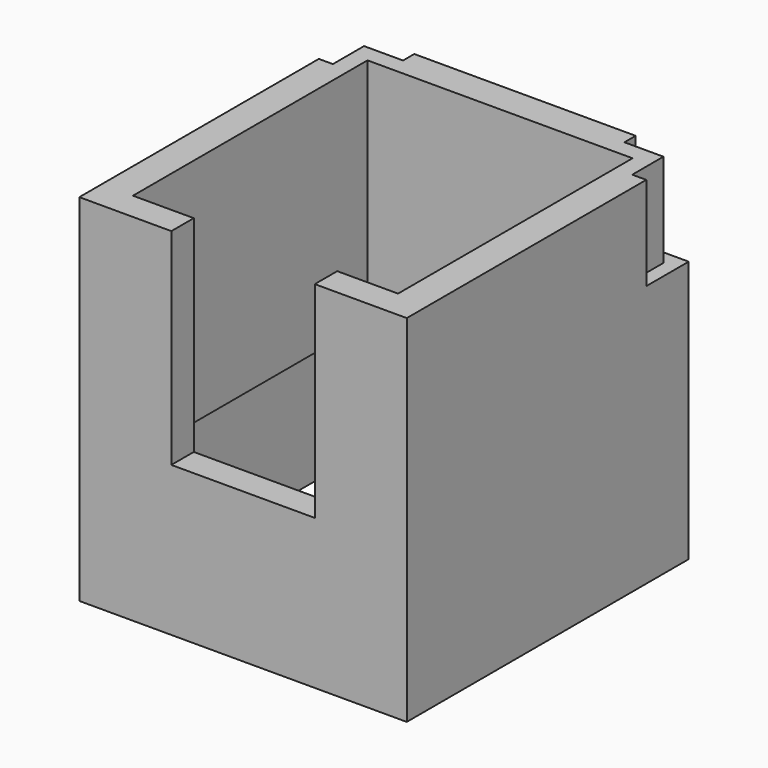
from build123d import *

# Parameters (mm, degrees)
SKETCH122_W             = 52.5
SKETCH122_H             = 56.5
SKETCH122_W_2           = 42.5
SKETCH122_H_2           = 47
PAD062_DEPTH            = 37
SKETCH121_W             = 23
SKETCH121_H             = 33
POCKET053_DEPTH         = 5
SKETCH123_W             = 52.5
SKETCH123_H             = 56.5
SKETCH123_W_2           = 47
SKETCH123_H_2           = 52
PAD061_DEPTH            = 20
POCKET061_DEPTH         = 15
BODY034_PLACEMENT_ANGLE = 180


with BuildPart() as part:
    # Sketch122 → Pad062 (new body)
    with BuildSketch(Plane.XY):
        with Locations((0, -26)):
            Rectangle(SKETCH122_W, SKETCH122_H)
        with Locations((0, -25.75)):
            Rectangle(SKETCH122_W_2, SKETCH122_H_2, mode=Mode.SUBTRACT)
    extrude(amount=PAD062_DEPTH)

    # Sketch121 (on Face1 of Pad062) → Pocket053 (cut)
    with BuildSketch(Plane(origin=(0, 2.25, 0), x_dir=(-1, 0, 0), z_dir=(0, 1, 0))):
        with Locations((0, 20.5)):
            Rectangle(SKETCH121_W, SKETCH121_H)
    extrude(amount=-POCKET053_DEPTH, mode=Mode.SUBTRACT)

    # Sketch123 (on Face2 of Pocket053) → Pad061 (join)
    with BuildSketch(Plane(origin=(0, 0, 0), x_dir=(1, 0, 0), z_dir=(0, 0, -1))):
        with Locations((0, 26)):
            Rectangle(SKETCH123_W, SKETCH123_H)
        with Locations((0, 26)):
            Rectangle(SKETCH123_W_2, SKETCH123_H_2, mode=Mode.SUBTRACT)
    extrude(amount=PAD061_DEPTH)

    # Sketch137 (on Face1 of Pad061) → Pocket061 (cut)
    with BuildSketch(Plane.XY.offset(37)):
        Polygon((-26.25, -54.25), (-26.25, -45.75), (-24, -45.75), (-24, -52), (-17.75, -52), (-17.75, -54.25), align=None)
        Polygon((26.25, -54.25), (17.75, -54.25), (17.75, -52), (24, -52), (24, -45.75), (26.25, -45.75), align=None)
    extrude(amount=-POCKET061_DEPTH, mode=Mode.SUBTRACT)


with BuildPart() as part_1:
    # Body034 placement: moved
    add(part.part.moved(Location((0, 0, 135))).rotate(Axis((0, 0, 135), (0, 0, 1)), BODY034_PLACEMENT_ANGLE))


solid = part_1.part
